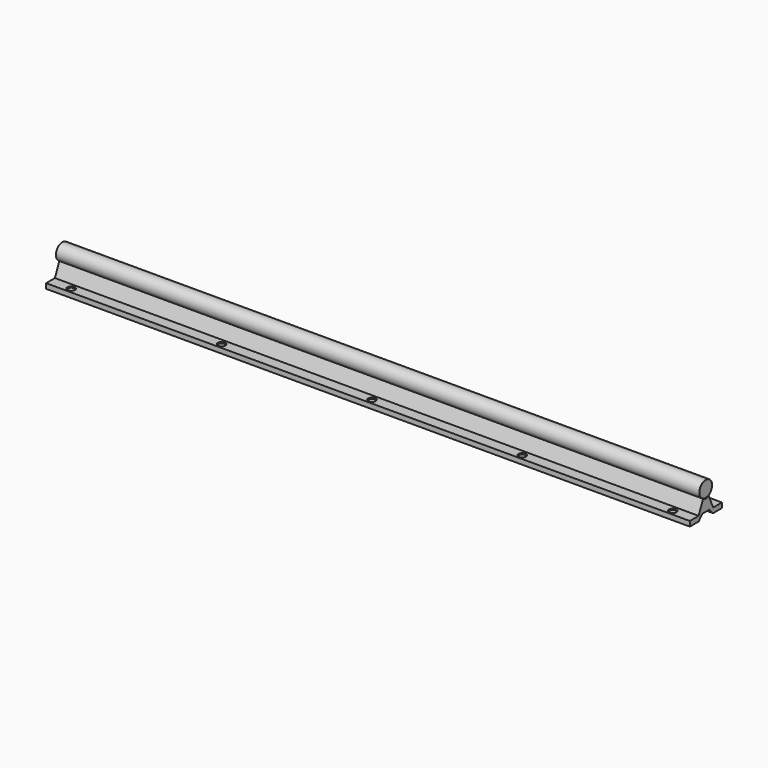
from build123d import *

# Parameters (mm, degrees)
F1_DEPTH       = 321
F2_DEPTH       = 321
F4_D           = 6
F4_CSINK_D     = 7.5
F4_CSINK_ANGLE = 90
F5_SIZE2       = 1
F5_SIZE        = 0.2
F5_2_SIZE2     = 1
F5_2_SIZE      = 0.2


with BuildPart() as f1:
    # F0 (on Right) → F1 (new body, symmetric)
    with BuildSketch(Plane.YZ):
        Polygon((9, 5), (3.5, 17.806252715), (0, 16.1033850002), (0, 5), (4.5, 5), (9, 0), (20, 0), (20, 5), align=None)
        Polygon((0, 16.1033850002), (-3.5, 17.806252715), (-9, 5), (-20, 5), (-20, 0), (-9, 0), (-4.5, 5), (0, 5), align=None)
    extrude(amount=F1_DEPTH, both=True)

    # F4 (through all)
    with Locations(Plane.XY.offset(5)):
        with Locations((-150, 15), (-300, 15), (0, 15), (0, -15), (-300, -15), (-150, -15), (150, -15), (300, 15), (150, 15), (300, -15)):
            CounterSinkHole(F4_D / 2, F4_CSINK_D / 2, counter_sink_angle=F4_CSINK_ANGLE)


with BuildPart() as f2:
    # F0 (on Right) → F2 (new body, symmetric)
    with BuildSketch(Plane.YZ):
        with BuildLine():
            ThreePointArc((3.5, 17.806252715), (6.7823299831, 20.7573593129), (8, 25))
            ThreePointArc((8, 25), (-4.2426406871, 31.7823299831), (-3.5, 17.806252715))
            ThreePointArc((-3.5, 17.806252715), (0, 17), (3.5, 17.806252715))
        make_face()
    extrude(amount=F2_DEPTH, both=True)

    # F5
    f5_edges = [f2.edges().sort_by_distance(p)[0] for p in [
        (-321, -4.242641, 31.78233),
    ]]
    f5_side = f2.faces().sort_by_distance((-160.5, -4.242641, 31.78233))[0]
    chamfer(f5_edges, length=F5_SIZE, length2=F5_SIZE2, reference=f5_side)

    # F5#2
    f5_2_edges = [f2.edges().sort_by_distance(p)[0] for p in [
        (321, -4.242641, 31.78233),
    ]]
    f5_2_side = f2.faces().sort_by_distance((160.5, -4.242641, 31.78233))[0]
    chamfer(f5_2_edges, length=F5_2_SIZE, length2=F5_2_SIZE2, reference=f5_2_side)


solid = Compound([f1.part, f2.part])
